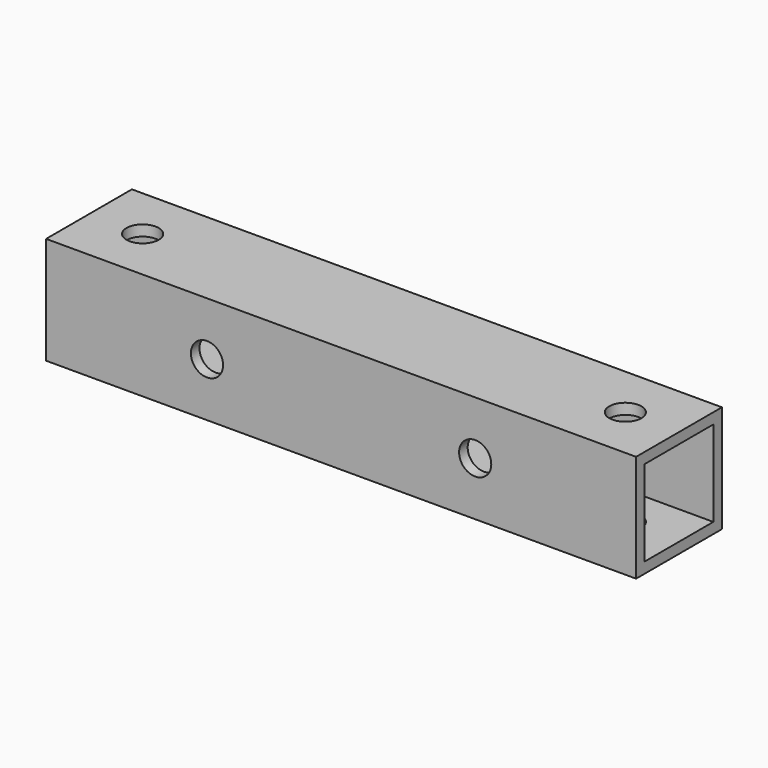
from build123d import *

# Parameters (mm, degrees)
F0_W     = 10
F0_H     = 10
F0_W_2   = 8
F0_H_2   = 8
F1_DEPTH = 55
F2_R     = 1.5
F3_DEPTH = 25
F4_R     = 1.5
F5_DEPTH = 25


with BuildPart() as f1:
    # F0 (on Right) → F1 (new body)
    with BuildSketch(Plane.YZ):
        Rectangle(F0_W, F0_H)
        Rectangle(F0_W_2, F0_H_2, mode=Mode.SUBTRACT)
    extrude(amount=F1_DEPTH)

    # F2 (on face) → F3 (cut)
    with BuildSketch(Plane.XY.offset(5)):
        with Locations((5, 0)):
            Circle(F2_R)
        with Locations((50, 0)):
            Circle(F2_R)
    extrude(amount=-F3_DEPTH, mode=Mode.SUBTRACT)

    # F4 (on face) → F5 (cut)
    with BuildSketch(Plane.XZ.offset(5)):
        with Locations((15, 0)):
            Circle(F4_R)
        with Locations((40, 0)):
            Circle(F4_R)
    extrude(amount=-F5_DEPTH, mode=Mode.SUBTRACT)


solid = f1.part
